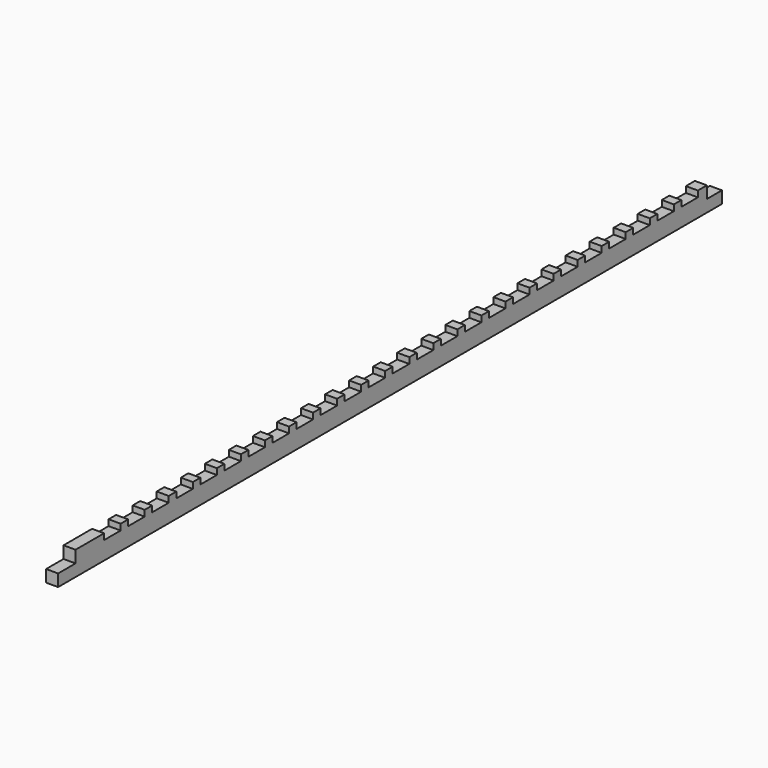
from build123d import *

# Parameters (mm, degrees)
F0_W     = 32
F0_H     = 32
F1_DEPTH = 2208
F3_W     = 32
F3_H     = 32
F4_DEPTH = 2100
F5_W     = 55
F5_H     = 20
F6_DEPTH = 32


with BuildPart() as f1:
    # F0 (on Front) → F1 (new body)
    with BuildSketch(Plane.XZ):
        Rectangle(F0_W, F0_H)
    extrude(amount=F1_DEPTH)

    # F3 (on offset) → F4 (join)
    with BuildSketch(Plane.XZ.offset(50)):
        with Locations((0, 32)):
            Rectangle(F3_W, F3_H)
    extrude(amount=F4_DEPTH)

    # F5 (on face) → F6 (cut)
    with BuildSketch(Plane.YZ.offset(16)):
        with Locations((-107.5, 42)):
            Rectangle(F5_W, F5_H)
        with Locations((-187.5, 42)):
            Rectangle(F5_W, F5_H)
        with Locations((-267.5, 42)):
            Rectangle(F5_W, F5_H)
        with Locations((-347.5, 42)):
            Rectangle(F5_W, F5_H)
        with Locations((-427.5, 42)):
            Rectangle(F5_W, F5_H)
        with Locations((-507.5, 42)):
            Rectangle(F5_W, F5_H)
        with Locations((-587.5, 42)):
            Rectangle(F5_W, F5_H)
        with Locations((-667.5, 42)):
            Rectangle(F5_W, F5_H)
        with Locations((-747.5, 42)):
            Rectangle(F5_W, F5_H)
        with Locations((-827.5, 42)):
            Rectangle(F5_W, F5_H)
        with Locations((-907.5, 42)):
            Rectangle(F5_W, F5_H)
        with Locations((-987.5, 42)):
            Rectangle(F5_W, F5_H)
        with Locations((-1067.5, 42)):
            Rectangle(F5_W, F5_H)
        with Locations((-1147.5, 42)):
            Rectangle(F5_W, F5_H)
        with Locations((-1227.5, 42)):
            Rectangle(F5_W, F5_H)
        with Locations((-1307.5, 42)):
            Rectangle(F5_W, F5_H)
        with Locations((-1387.5, 42)):
            Rectangle(F5_W, F5_H)
        with Locations((-1467.5, 42)):
            Rectangle(F5_W, F5_H)
        with Locations((-1547.5, 42)):
            Rectangle(F5_W, F5_H)
        with Locations((-1627.5, 42)):
            Rectangle(F5_W, F5_H)
        with Locations((-1707.5, 42)):
            Rectangle(F5_W, F5_H)
        with Locations((-1787.5, 42)):
            Rectangle(F5_W, F5_H)
        with Locations((-1867.5, 42)):
            Rectangle(F5_W, F5_H)
        with Locations((-1947.5, 42)):
            Rectangle(F5_W, F5_H)
        with Locations((-2027.5, 42)):
            Rectangle(F5_W, F5_H)
    extrude(amount=-F6_DEPTH, mode=Mode.SUBTRACT)


solid = f1.part
